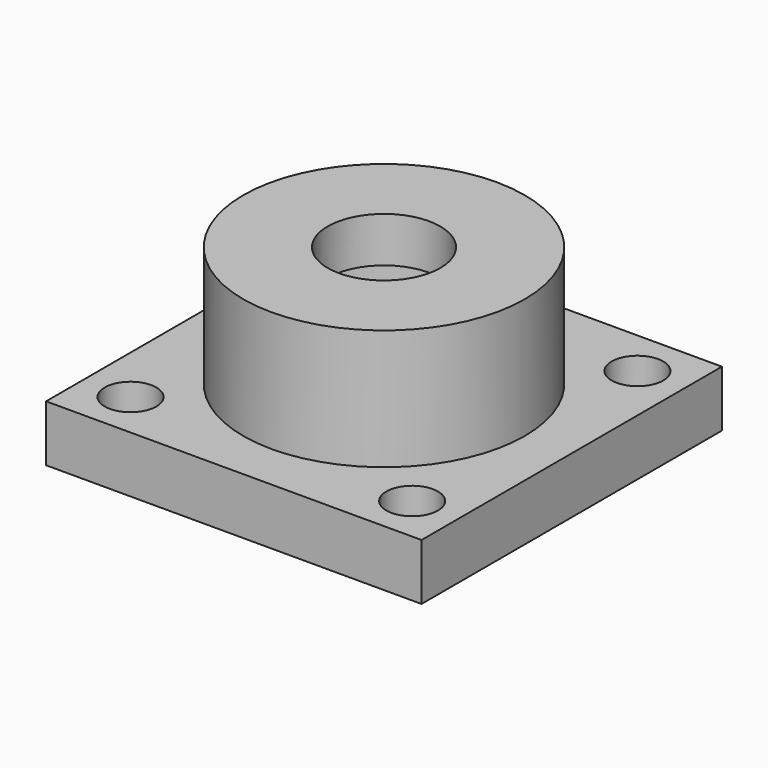
from build123d import *

# Parameters (mm, degrees)
F0_W     = 20
F0_H     = 20
F0_R     = 1.375
F0_R_2   = 5.5
F1_DEPTH = 3
F2_R     = 7.5
F2_R_2   = 5.5
F3_DEPTH = 4
F5_W     = 4.5
F5_H     = 2.413743116


with BuildPart() as f1:
    # F0 (on Top) → F1 (new body)
    with BuildSketch(Plane.XY):
        with Locations((10, 10)):
            Rectangle(F0_W, F0_H)
        with Locations((2.5, 2.5)):
            Circle(F0_R, mode=Mode.SUBTRACT)
        with Locations((17.5, 2.5)):
            Circle(F0_R, mode=Mode.SUBTRACT)
        with Locations((2.5, 17.5)):
            Circle(F0_R, mode=Mode.SUBTRACT)
        with Locations((10, 10)):
            Circle(F0_R_2, mode=Mode.SUBTRACT)
        with Locations((17.5, 17.5)):
            Circle(F0_R, mode=Mode.SUBTRACT)
    extrude(amount=F1_DEPTH)

    # F2 (on face) → F3 (join)
    with BuildSketch(Plane.XY.offset(3)):
        with Locations((10, 10)):
            Circle(F2_R)
        with Locations((10, 10)):
            Circle(F2_R_2, mode=Mode.SUBTRACT)
    extrude(amount=F3_DEPTH)

    # F5 (on offset) → F6 (revolve)
    with BuildSketch(Plane.XZ.offset(-10)):
        with Locations((15.25, 8.206871558)):
            Rectangle(F5_W, F5_H)
    revolve(axis=Axis((10, 10, 3.5), (0, 0, -1)))


solid = f1.part
